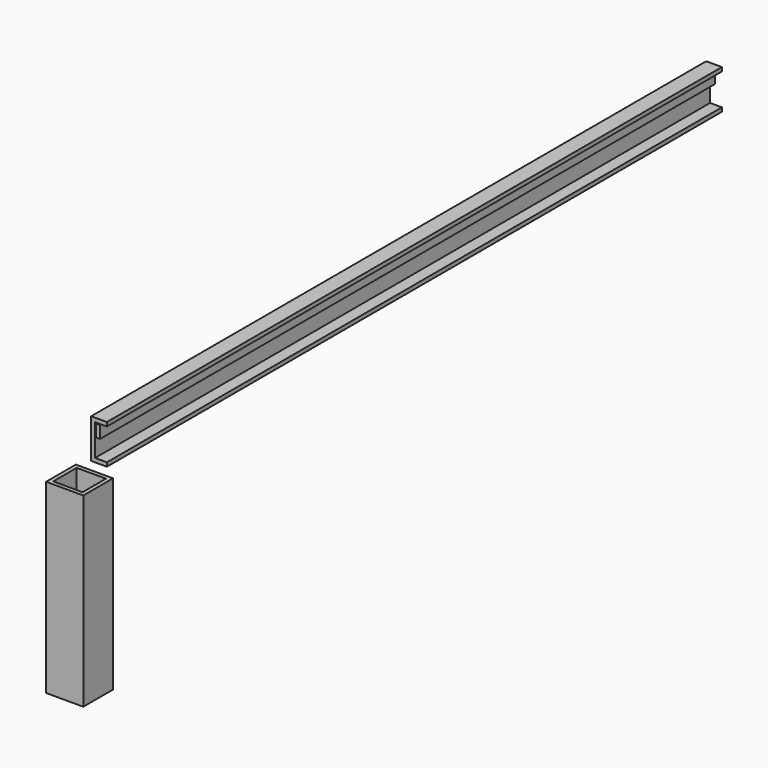
from build123d import *

# Parameters (mm, degrees)
F2_DEPTH = 620
F1_W     = 3.175
F1_H     = 9.9314
F3_DEPTH = 620
F4_W     = 30
F4_H     = 30
F4_W_2   = 23.65
F4_H_2   = 23.65
F5_DEPTH = 150


with BuildPart() as f2:
    # F0 (on Front) → F2 (new body)
    with BuildSketch(Plane.XZ):
        Polygon((6.35, 31.75), (-6.35, 31.75), (-6.35, 0), (6.35, 0), (6.35, 3.175), (-3.175, 3.175), (-3.175, 28.575), (6.35, 28.575), align=None)
    extrude(amount=-F2_DEPTH)


with BuildPart() as f3:
    # F1 (on Front) → F3 (new body)
    with BuildSketch(Plane.XZ):
        with Locations((-0.772288, 22.882544)):
            Rectangle(F1_W, F1_H)
    extrude(amount=-F3_DEPTH)


with BuildPart() as f5:
    # F4 (on Top) → F5 (new body)
    with BuildSketch(Plane.XY):
        with Locations((4.207279, -24.863193)):
            Rectangle(F4_W, F4_H)
        with Locations((4.207279, -24.863193)):
            Rectangle(F4_W_2, F4_H_2, mode=Mode.SUBTRACT)
    extrude(amount=-F5_DEPTH)


solid = Compound([f2.part, f3.part, f5.part])
